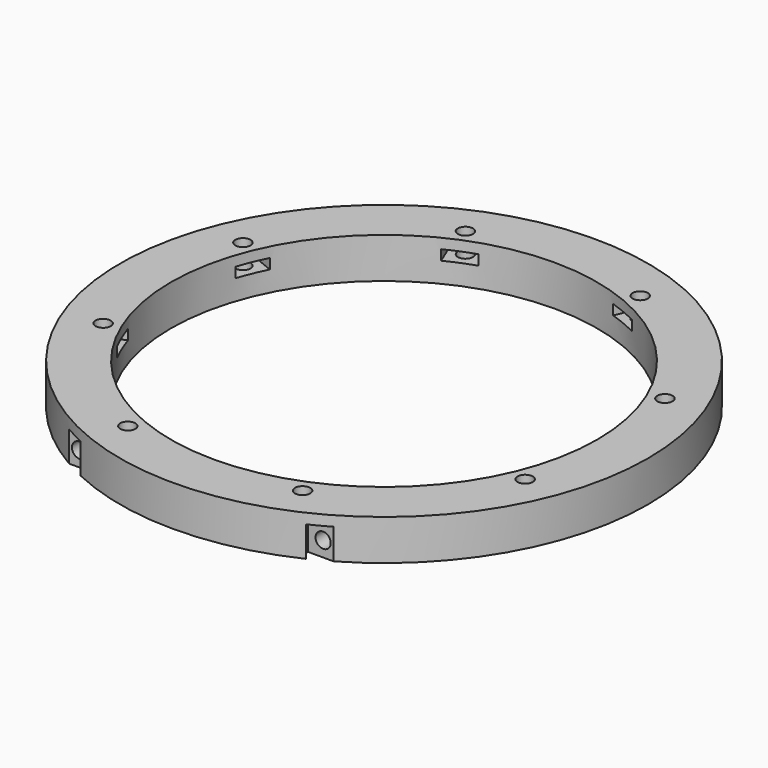
from build123d import *

# Parameters (mm, degrees)
CYLINDER1027_R               = 1.5
CYLINDER1027_DEPTH           = 20
CYLINDER1027_PLACEMENT_ANGLE = 45
CYLINDER1030_R               = 1.5
CYLINDER1030_DEPTH           = 20
CYLINDER1025_R               = 1.5
CYLINDER1025_DEPTH           = 20
CYLINDER1025_PLACEMENT_ANGLE = 135
CYLINDER1024_R               = 1.5
CYLINDER1024_DEPTH           = 20
CYLINDER1026_R               = 1.5
CYLINDER1026_DEPTH           = 20
CYLINDER1026_PLACEMENT_ANGLE = 225
CYLINDER1028_R               = 1.5
CYLINDER1028_DEPTH           = 20
CYLINDER1029_R               = 1.5
CYLINDER1029_DEPTH           = 20
CYLINDER1029_PLACEMENT_ANGLE = 45
CYLINDER1022_R               = 1.5
CYLINDER1022_DEPTH           = 20
COMPOUND819_PLACEMENT_ANGLE  = 22.5
BOX420_W                     = 6
BOX420_H                     = 8
BOX420_DEPTH                 = 2
BOX420_PLACEMENT_ANGLE       = 45
BOX417_W                     = 6
BOX417_H                     = 8
BOX417_DEPTH                 = 2
BOX427_W                     = 6
BOX427_H                     = 8
BOX427_DEPTH                 = 2
BOX427_PLACEMENT_ANGLE       = 135
BOX419_W                     = 6
BOX419_H                     = 8
BOX419_DEPTH                 = 2
BOX424_W                     = 6
BOX424_H                     = 8
BOX424_DEPTH                 = 2
BOX424_PLACEMENT_ANGLE       = 225
BOX428_W                     = 6
BOX428_H                     = 8
BOX428_DEPTH                 = 2
BOX426_W                     = 6
BOX426_H                     = 8
BOX426_DEPTH                 = 2
BOX426_PLACEMENT_ANGLE       = 45
BOX425_W                     = 6
BOX425_H                     = 8
BOX425_DEPTH                 = 2
COMPOUND821_PLACEMENT_ANGLE  = 22.5
CYLINDER1019_R               = 1.5
CYLINDER1019_DEPTH           = 20
CYLINDER1021_R               = 1.5
CYLINDER1021_DEPTH           = 20
CYLINDER1020_R               = 1.5
CYLINDER1020_DEPTH           = 20
CYLINDER1023_R               = 1.5
CYLINDER1023_DEPTH           = 20
BOX421_W                     = 6
BOX421_H                     = 2
BOX421_DEPTH                 = 6
BOX418_W                     = 6
BOX418_H                     = 2
BOX418_DEPTH                 = 6
BOX423_W                     = 6
BOX423_H                     = 2
BOX423_DEPTH                 = 6
BOX422_W                     = 6
BOX422_H                     = 2
BOX422_DEPTH                 = 6
TUBE088_R                    = 52
TUBE088_R_2                  = 42
TUBE088_DEPTH                = 8


with BuildPart() as obj1:
    # Cylinder1027 → Cylinder1027 (new body)
    with BuildSketch(Plane.XY):
        Circle(CYLINDER1027_R)
    extrude(amount=CYLINDER1027_DEPTH)


with BuildPart() as obj1_1:
    # Cylinder1027 placement: moved
    add(obj1.part.moved(Location((-31.819805, 31.819805, -18))).rotate(Axis((-31.819805, 31.819805, -18), (0, 0, 1)), CYLINDER1027_PLACEMENT_ANGLE))


with BuildPart() as obj2:
    # Cylinder1030 → Cylinder1030 (new body)
    with BuildSketch(Plane(origin=(-45, 0, -18), x_dir=(0, 1, 0), z_dir=(0, 0, 1))):
        Circle(CYLINDER1030_R)
    extrude(amount=CYLINDER1030_DEPTH)


with BuildPart() as obj3:
    # Cylinder1025 → Cylinder1025 (new body)
    with BuildSketch(Plane.XY):
        Circle(CYLINDER1025_R)
    extrude(amount=CYLINDER1025_DEPTH)


with BuildPart() as obj3_1:
    # Cylinder1025 placement: moved
    add(obj3.part.moved(Location((-31.819805, -31.819805, -18))).rotate(Axis((-31.819805, -31.819805, -18), (0, 0, 1)), CYLINDER1025_PLACEMENT_ANGLE))


with BuildPart() as obj4:
    # Cylinder1024 → Cylinder1024 (new body)
    with BuildSketch(Plane(origin=(0, -45, -18), x_dir=(-1, 0, 0), z_dir=(0, 0, 1))):
        Circle(CYLINDER1024_R)
    extrude(amount=CYLINDER1024_DEPTH)


with BuildPart() as obj5:
    # Cylinder1026 → Cylinder1026 (new body)
    with BuildSketch(Plane.XY):
        Circle(CYLINDER1026_R)
    extrude(amount=CYLINDER1026_DEPTH)


with BuildPart() as obj5_1:
    # Cylinder1026 placement: moved
    add(obj5.part.moved(Location((31.819805, -31.819805, -18))).rotate(Axis((31.819805, -31.819805, -18), (0, 0, 1)), CYLINDER1026_PLACEMENT_ANGLE))


with BuildPart() as obj6:
    # Cylinder1028 → Cylinder1028 (new body)
    with BuildSketch(Plane(origin=(45, 0, -18), x_dir=(0, -1, 0), z_dir=(0, 0, 1))):
        Circle(CYLINDER1028_R)
    extrude(amount=CYLINDER1028_DEPTH)


with BuildPart() as obj7:
    # Cylinder1029 → Cylinder1029 (new body)
    with BuildSketch(Plane.XY):
        Circle(CYLINDER1029_R)
    extrude(amount=CYLINDER1029_DEPTH)


with BuildPart() as obj7_1:
    # Cylinder1029 placement: moved
    add(obj7.part.moved(Location((31.819805, 31.819805, -18))).rotate(Axis((31.819805, 31.819805, -18), (0, 0, -1)), CYLINDER1029_PLACEMENT_ANGLE))


with BuildPart() as compound819:
    # Cylinder1022 → Cylinder1022 (new body)
    with BuildSketch(Plane(origin=(0, 45, -18), x_dir=(1, 0, 0), z_dir=(0, 0, 1))):
        Circle(CYLINDER1022_R)
    extrude(amount=CYLINDER1022_DEPTH)

    # Compound819: union obj1, obj2, obj3, obj4, obj5, obj6, obj7
    add(obj1_1.part)
    add(obj2.part)
    add(obj3_1.part)
    add(obj4.part)
    add(obj5_1.part)
    add(obj6.part)
    add(obj7_1.part)


with BuildPart() as compound819_1:
    # Compound819 placement: moved
    add(compound819.part.rotate(Axis((0, 0, 0), (0, 0, 1)), COMPOUND819_PLACEMENT_ANGLE))


with BuildPart() as krychle420:
    # Box420 → Box420 (new body)
    with BuildSketch(Plane.XY):
        with Locations((3, 4)):
            Rectangle(BOX420_W, BOX420_H)
    extrude(amount=BOX420_DEPTH)


with BuildPart() as krychle420_1:
    # Box420 placement: moved
    add(krychle420.part.moved(Location((-31.112698, 26.870058, -4))).rotate(Axis((-31.112698, 26.870058, -4), (0, 0, 1)), BOX420_PLACEMENT_ANGLE))


with BuildPart() as krychle417:
    # Box417 → Box417 (new body)
    with BuildSketch(Plane(origin=(-41, -3, -4), x_dir=(0, 1, 0), z_dir=(0, 0, 1))):
        with Locations((3, 4)):
            Rectangle(BOX417_W, BOX417_H)
    extrude(amount=BOX417_DEPTH)


with BuildPart() as krychle427:
    # Box427 → Box427 (new body)
    with BuildSketch(Plane.XY):
        with Locations((3, 4)):
            Rectangle(BOX427_W, BOX427_H)
    extrude(amount=BOX427_DEPTH)


with BuildPart() as krychle427_1:
    # Box427 placement: moved
    add(krychle427.part.moved(Location((-26.870058, -31.112698, -4))).rotate(Axis((-26.870058, -31.112698, -4), (0, 0, 1)), BOX427_PLACEMENT_ANGLE))


with BuildPart() as krychle419:
    # Box419 → Box419 (new body)
    with BuildSketch(Plane(origin=(3, -41, -4), x_dir=(-1, 0, 0), z_dir=(0, 0, 1))):
        with Locations((3, 4)):
            Rectangle(BOX419_W, BOX419_H)
    extrude(amount=BOX419_DEPTH)


with BuildPart() as krychle424:
    # Box424 → Box424 (new body)
    with BuildSketch(Plane.XY):
        with Locations((3, 4)):
            Rectangle(BOX424_W, BOX424_H)
    extrude(amount=BOX424_DEPTH)


with BuildPart() as krychle424_1:
    # Box424 placement: moved
    add(krychle424.part.moved(Location((31.112698, -26.870058, -4))).rotate(Axis((31.112698, -26.870058, -4), (0, 0, 1)), BOX424_PLACEMENT_ANGLE))


with BuildPart() as krychle428:
    # Box428 → Box428 (new body)
    with BuildSketch(Plane(origin=(41, 3, -4), x_dir=(0, -1, 0), z_dir=(0, 0, 1))):
        with Locations((3, 4)):
            Rectangle(BOX428_W, BOX428_H)
    extrude(amount=BOX428_DEPTH)


with BuildPart() as krychle426:
    # Box426 → Box426 (new body)
    with BuildSketch(Plane.XY):
        with Locations((3, 4)):
            Rectangle(BOX426_W, BOX426_H)
    extrude(amount=BOX426_DEPTH)


with BuildPart() as krychle426_1:
    # Box426 placement: moved
    add(krychle426.part.moved(Location((26.870058, 31.112698, -4))).rotate(Axis((26.870058, 31.112698, -4), (0, 0, -1)), BOX426_PLACEMENT_ANGLE))


with BuildPart() as compound821:
    # Box425 → Box425 (new body)
    with BuildSketch(Plane(origin=(-3, 41, -4), x_dir=(1, 0, 0), z_dir=(0, 0, 1))):
        with Locations((3, 4)):
            Rectangle(BOX425_W, BOX425_H)
    extrude(amount=BOX425_DEPTH)

    # Compound821: union Krychle420, Krychle417, Krychle427, Krychle419, Krychle424, Krychle428, Krychle426
    add(krychle420_1.part)
    add(krychle417.part)
    add(krychle427_1.part)
    add(krychle419.part)
    add(krychle424_1.part)
    add(krychle428.part)
    add(krychle426_1.part)


with BuildPart() as compound821_1:
    # Compound821 placement: moved
    add(compound821.part.rotate(Axis((0, 0, 0), (0, 0, 1)), COMPOUND821_PLACEMENT_ANGLE))


with BuildPart() as obj8:
    # Cylinder1019 → Cylinder1019 (new body)
    with BuildSketch(Plane(origin=(24, -40, -5), x_dir=(1, 0, 0), z_dir=(0, -1, 0))):
        Circle(CYLINDER1019_R)
    extrude(amount=CYLINDER1019_DEPTH)


with BuildPart() as obj9:
    # Cylinder1021 → Cylinder1021 (new body)
    with BuildSketch(Plane(origin=(51, -40, 7), x_dir=(1, 0, 0), z_dir=(0, -1, 0))):
        Circle(CYLINDER1021_R)
    extrude(amount=CYLINDER1021_DEPTH)


with BuildPart() as obj10:
    # Cylinder1020 → Cylinder1020 (new body)
    with BuildSketch(Plane(origin=(-51, -40, 7), x_dir=(1, 0, 0), z_dir=(0, -1, 0))):
        Circle(CYLINDER1020_R)
    extrude(amount=CYLINDER1020_DEPTH)


with BuildPart() as compound818:
    # Cylinder1023 → Cylinder1023 (new body)
    with BuildSketch(Plane(origin=(-24, -40, -5), x_dir=(1, 0, 0), z_dir=(0, -1, 0))):
        Circle(CYLINDER1023_R)
    extrude(amount=CYLINDER1023_DEPTH)

    # Compound818: union obj8, obj9, obj10
    add(obj8.part)
    add(obj9.part)
    add(obj10.part)


with BuildPart() as krychle421:
    # Box421 → Box421 (new body)
    with BuildSketch(Plane(origin=(21, -47, -8), x_dir=(1, 0, 0), z_dir=(0, 0, 1))):
        with Locations((3, 1)):
            Rectangle(BOX421_W, BOX421_H)
    extrude(amount=BOX421_DEPTH)


with BuildPart() as krychle418:
    # Box418 → Box418 (new body)
    with BuildSketch(Plane(origin=(48, -45, 4), x_dir=(1, 0, 0), z_dir=(0, 0, 1))):
        with Locations((3, 1)):
            Rectangle(BOX418_W, BOX418_H)
    extrude(amount=BOX418_DEPTH)


with BuildPart() as krychle423:
    # Box423 → Box423 (new body)
    with BuildSketch(Plane(origin=(-54, -45, 4), x_dir=(1, 0, 0), z_dir=(0, 0, 1))):
        with Locations((3, 1)):
            Rectangle(BOX423_W, BOX423_H)
    extrude(amount=BOX423_DEPTH)


with BuildPart() as compound820:
    # Box422 → Box422 (new body)
    with BuildSketch(Plane(origin=(-27, -47, -8), x_dir=(1, 0, 0), z_dir=(0, 0, 1))):
        with Locations((3, 1)):
            Rectangle(BOX422_W, BOX422_H)
    extrude(amount=BOX422_DEPTH)

    # Compound820: union Krychle421, Krychle418, Krychle423
    add(krychle421.part)
    add(krychle418.part)
    add(krychle423.part)


with BuildPart() as cut428:
    # Tube088 → Tube088 (new body)
    with BuildSketch(Plane.XY.offset(-8)):
        Circle(TUBE088_R)
        Circle(TUBE088_R_2, mode=Mode.SUBTRACT)
    extrude(amount=TUBE088_DEPTH)

    # Cut426: cut Compound820
    add(compound820.part, mode=Mode.SUBTRACT)

    # Cut427: cut Compound818
    add(compound818.part, mode=Mode.SUBTRACT)

    # Cut425: cut Compound821
    add(compound821_1.part, mode=Mode.SUBTRACT)

    # Cut428: cut Compound819
    add(compound819_1.part, mode=Mode.SUBTRACT)


solid = cut428.part
